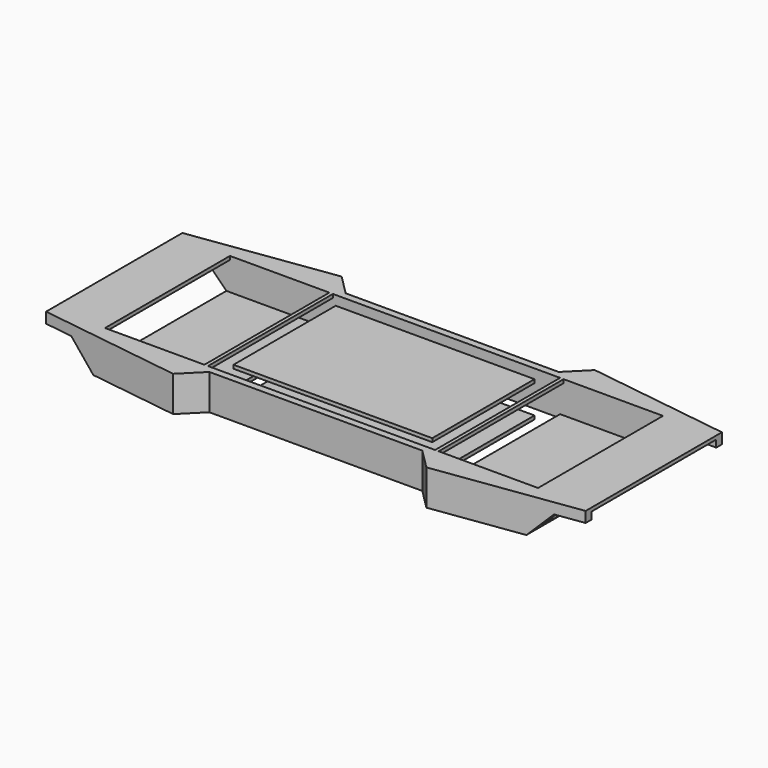
from build123d import *

# Parameters (mm, degrees)
F1_DEPTH  = 50
F3_W      = 220
F3_H      = 40
F4_DEPTH  = 760
F5_DEPTH  = 240
F6_W      = 319.999992
F6_H      = 220
F6_W_2    = 280
F6_H_2    = 180
F7_DEPTH  = 50
F8_DEPTH  = 435.929273
F9_W      = 140
F9_H      = 220
F10_DEPTH = 10


with BuildPart() as f1:
    # F0 (on Top) → F1 (new body)
    with BuildSketch(Plane.XY):
        Polygon((-178.341289, 148.341284), (-380, 120), (-380, -120), (-178.341289, -148.341284), (-150.000006, -120), (150.000006, -120), (178.341289, -148.341284), (380, -120), (380, 120), (178.341289, 148.341284), (150.000006, 120), (-150.000006, 120), align=None)
    extrude(amount=F1_DEPTH)

    # F3 (on face) → F4 (cut)
    with BuildSketch(Plane(origin=(-380, 0, 0), x_dir=(0, -1, 0), z_dir=(-1, 0, 0))):
        with Locations((0, 25)):
            Rectangle(F3_W, F3_H)
    extrude(amount=-F4_DEPTH, mode=Mode.SUBTRACT)

    # F2 (on face) → F5 (cut)
    with BuildSketch(Plane.XZ.offset(120)):
        Polygon((305, 0), (380, 0), (380, 35), (340, 35), align=None)
        Polygon((-340, 35), (-380, 35), (-380, 0), (-305, 0), align=None)
    extrude(amount=-F5_DEPTH, mode=Mode.SUBTRACT)

    # F6 (on face) → F7 (cut)
    with BuildSketch(Plane.XY.offset(50)):
        Rectangle(F6_W, F6_H)
        Rectangle(F6_W_2, F6_H_2, mode=Mode.SUBTRACT)
    extrude(amount=-F7_DEPTH, mode=Mode.SUBTRACT)

    # F2 (on face) → F8 (cut, symmetric)
    with BuildSketch(Plane.XZ.offset(120)):
        Polygon((-340, 35), (-380, 35), (-380, 0), (-305, 0), align=None)
        Polygon((305, 0), (380, 0), (380, 35), (340, 35), align=None)
    extrude(amount=F8_DEPTH, both=True, mode=Mode.SUBTRACT)

    # F9 (on face) → F10 (cut)
    with BuildSketch(Plane.XY.offset(50)):
        with Locations((-234.999996, 0)):
            Rectangle(F9_W, F9_H)
        with Locations((234.999996, 0)):
            Rectangle(F9_W, F9_H)
    extrude(amount=-F10_DEPTH, mode=Mode.SUBTRACT)


solid = f1.part
